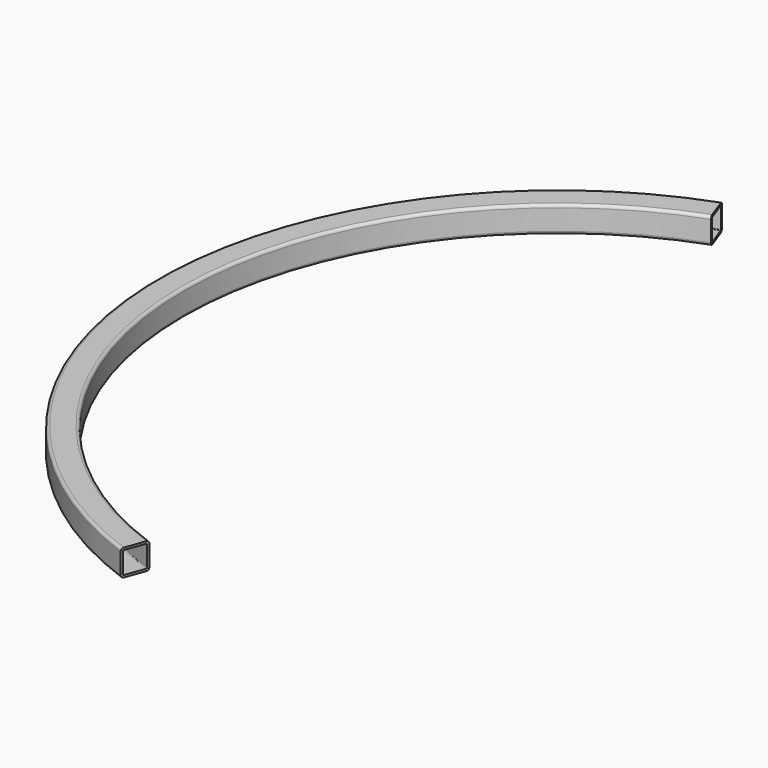
from build123d import *

# Parameters (mm, degrees)
F1_ANGLE = 140


with BuildPart() as f1:
    # F0 (on Front) → F1 (revolve, symmetric)
    with BuildSketch(Plane.XZ) as f1_sk:
        with BuildLine():
            Line((-7.4422, -9.525), (7.4422, -9.525))
            ThreePointArc((7.4422, -9.525), (8.914962, -8.914962), (9.525, -7.4422))
            Line((9.525, -7.4422), (9.525, 7.4422))
            ThreePointArc((9.525, 7.4422), (8.914962, 8.914962), (7.4422, 9.525))
            Line((7.4422, 9.525), (-7.4422, 9.525))
            ThreePointArc((-7.4422, 9.525), (-8.914962, 8.914962), (-9.525, 7.4422))
            Line((-9.525, 7.4422), (-9.525, -7.4422))
            ThreePointArc((-9.525, -7.4422), (-8.914962, -8.914962), (-7.4422, -9.525))
        make_face()
        with BuildLine():
            ThreePointArc((7.9502, -7.4422), (7.80141, -7.80141), (7.4422, -7.9502))
            Line((7.4422, -7.9502), (-7.4422, -7.9502))
            ThreePointArc((-7.4422, -7.9502), (-7.80141, -7.80141), (-7.9502, -7.4422))
            Line((-7.9502, -7.4422), (-7.9502, 7.4422))
            ThreePointArc((-7.9502, 7.4422), (-7.80141, 7.80141), (-7.4422, 7.9502))
            Line((-7.4422, 7.9502), (7.4422, 7.9502))
            ThreePointArc((7.4422, 7.9502), (7.80141, 7.80141), (7.9502, 7.4422))
            Line((7.9502, 7.4422), (7.9502, -7.4422))
        make_face(mode=Mode.SUBTRACT)
    revolve(axis=Axis((279.4, 0, -3.901474), (0, 0, -1)), revolution_arc=F1_ANGLE / 2)
    revolve(f1_sk.sketch, axis=Axis((279.4, 0, -3.901474), (0, 0, 1)), revolution_arc=F1_ANGLE / 2)


solid = f1.part
